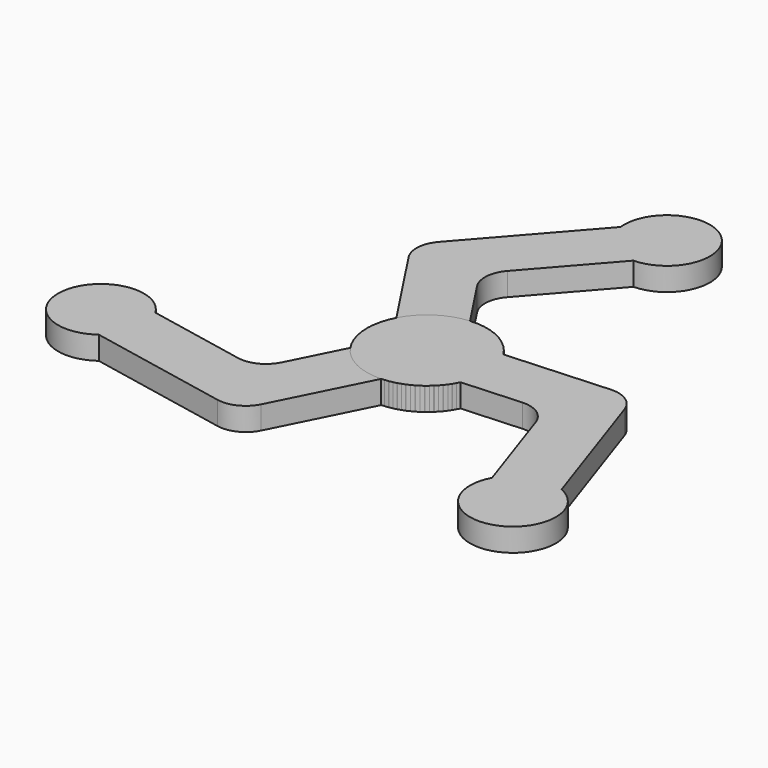
from build123d import *

# Parameters (mm, degrees)
F1_DEPTH = 5.08
F3_COUNT = 3


with BuildPart() as f1:
    # F0 (on Top) → F1 (new body)
    with BuildSketch(Plane.XY):
        with BuildLine():
            Line((-7.661233, 31.68155), (6.840542, 48.206824))
            ThreePointArc((6.840542, 48.206824), (12.888485, 64.725859), (-2.705104, 56.583617))
            Line((-2.705104, 56.583617), (-23.58999, 32.784565))
            ThreePointArc((-23.58999, 32.784565), (-25.151998, 29.034835), (-24.121734, 25.105599))
            Line((-24.121734, 25.105599), (-11.662238, 6.171089))
            ThreePointArc((-11.662238, 6.171089), (7.252866, -11.022072), (-1.053106, 13.152229))
            Line((-1.053106, 13.152229), (-8.192977, 24.002584))
            ThreePointArc((-8.192977, 24.002584), (-9.22324, 27.93182), (-7.661233, 31.68155))
        make_face()
    extrude(amount=F1_DEPTH)


with BuildPart() as f3_1:
    # F3: instance of F1
    add(f1.part.rotate(Axis((0, 0, 34.435112), (0, 0, 1)), 1 * 360 / F3_COUNT))


with BuildPart() as f3_2:
    # F3: instance of F1
    add(f1.part.rotate(Axis((0, 0, 34.435112), (0, 0, 1)), 2 * 360 / F3_COUNT))


solid = Compound([f1.part, f3_1.part, f3_2.part])
